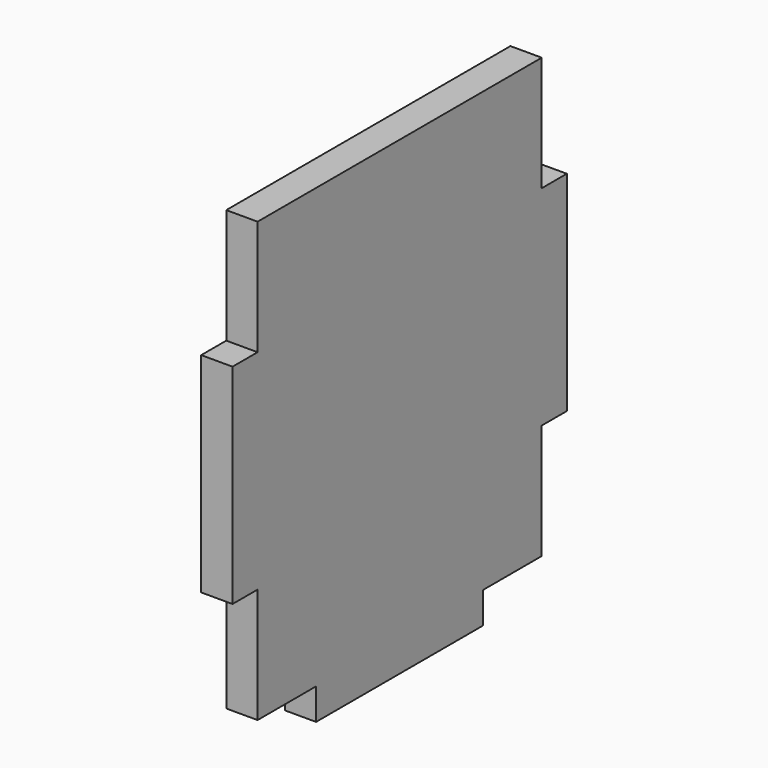
from build123d import *

# Parameters (mm, degrees)
F0_W     = 3
F0_H     = 20
F0_W_2   = 20
F0_H_2   = 3
F1_DEPTH = 3


with BuildPart() as f1:
    # F0 (on Right) → F1 (new body)
    with BuildSketch(Plane.YZ):
        Polygon((17, 10), (17, 21), (-17, 21), (-17, 10), (-17, -10), (-17, -21), (-10, -21), (10, -21), (17, -21), (17, -10), align=None)
        with Locations((18.5, 0)):
            Rectangle(F0_W, F0_H)
        with Locations((-18.5, 0)):
            Rectangle(F0_W, F0_H)
        with Locations((0, -22.5)):
            Rectangle(F0_W_2, F0_H_2)
    extrude(amount=F1_DEPTH)


solid = f1.part
